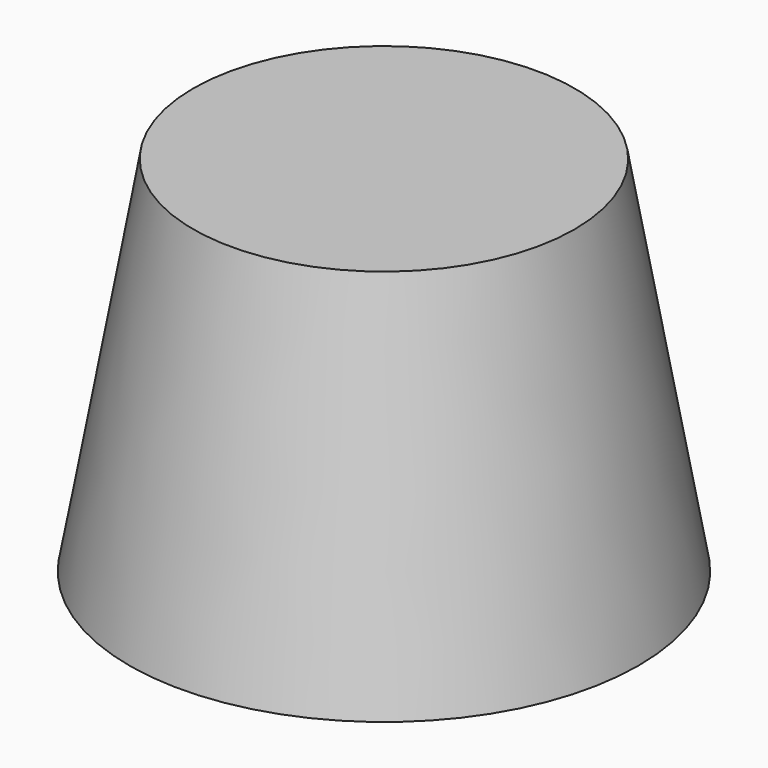
from build123d import *


with BuildPart() as f1:
    # F0 (on Front) → F1 (revolve)
    with BuildSketch(Plane.XZ):
        Polygon((14.011457, 28.575), (19.05, 0), (22.273979, 0), (16.675598, 31.75), (0, 31.75), (0, 28.575), align=None)
        Polygon((15.826021, 0), (11.347315, 25.4), (0, 25.4), (0, 22.225), (8.683174, 22.225), (12.602041, 0), align=None)
    revolve(axis=Axis((0, 0, 30.1625), (0, 0, -1)))


solid = f1.part
